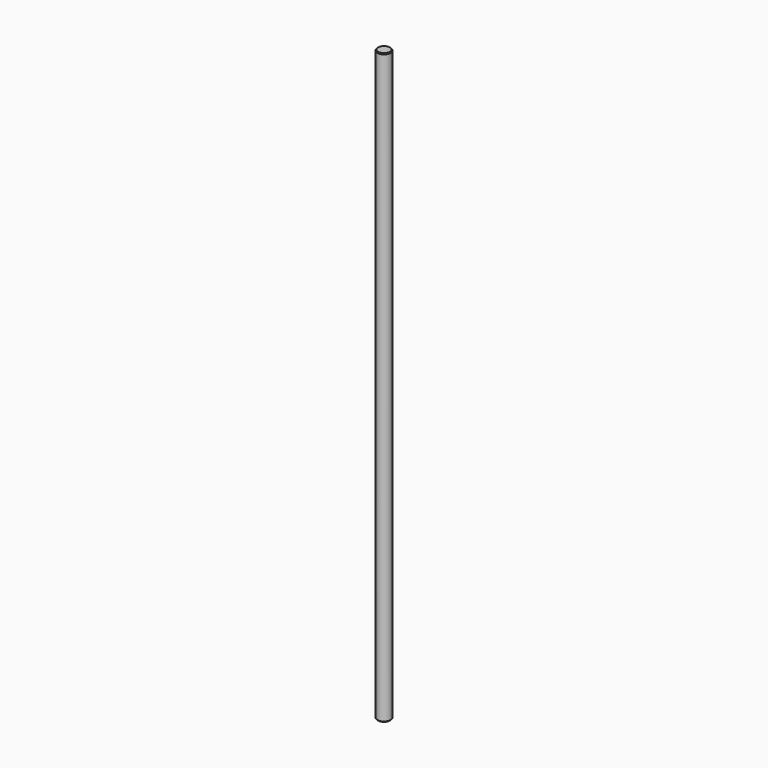
from build123d import *

# Parameters (mm, degrees)
SKETCH_R     = 4
PAD_DEPTH    = 350
CHAMFER_SIZE = 0.5


with BuildPart() as part:
    # Sketch → Pad (new body)
    with BuildSketch(Plane.XY):
        Circle(SKETCH_R)
    extrude(amount=PAD_DEPTH)

    # Chamfer
    chamfer_edges = [part.edges().sort_by_distance(p)[0] for p in [
        (-4, 0, 0),
        (-4, 0, 350),
    ]]
    chamfer(chamfer_edges, length=CHAMFER_SIZE)


solid = part.part
